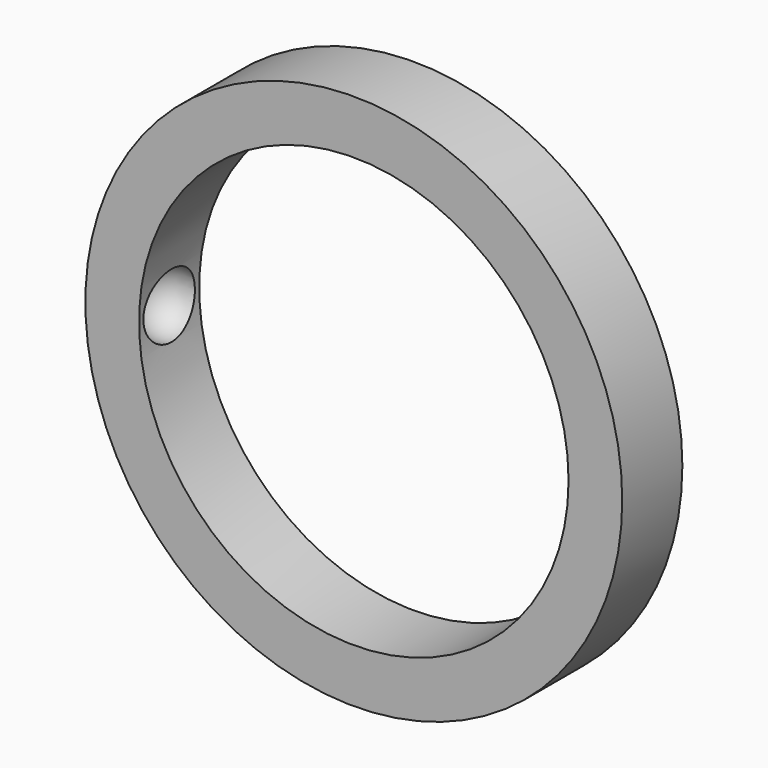
from build123d import *

# Parameters (mm, degrees)
F0_R          = 12.7
F0_R_2        = 10.16
F1_DEPTH      = 1.778
F1_DEPTH_BACK = 1.778


with BuildPart() as f1:
    # F0 (on Front) → F1 (new body, two sides)
    with BuildSketch(Plane.XZ) as f1_sk:
        Circle(F0_R)
        Circle(F0_R_2, mode=Mode.SUBTRACT)
    extrude(amount=F1_DEPTH)
    extrude(f1_sk.sketch, amount=-F1_DEPTH_BACK)

    # F2 (on Front) → F3 (revolve, cut)
    with BuildSketch(Plane.XZ):
        with BuildLine():
            Line((-10.16, 1.524), (-10.16, -1.524))
            ThreePointArc((-10.16, -1.524), (-8.636, 0), (-10.16, 1.524))
        make_face()
    revolve(axis=Axis((-10.16, 0, 0), (0, 0, 1)), mode=Mode.SUBTRACT)


solid = f1.part
